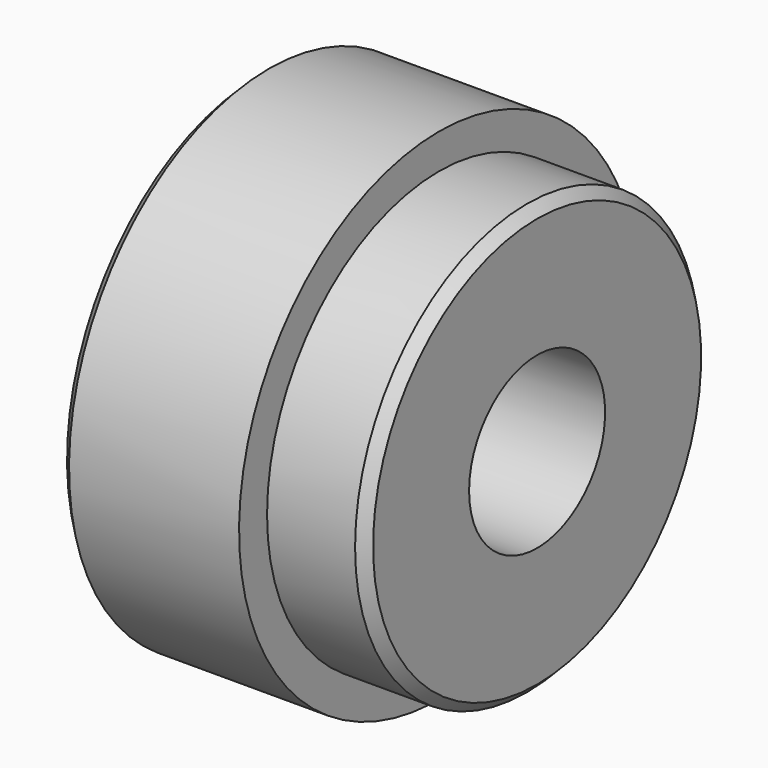
from build123d import *

# Parameters (mm, degrees)
F2_R     = 4.25
F3_DEPTH = 13.9
F4_SIZE  = 0.5


with BuildPart() as f1:
    # F0 (on Front) → F1 (revolve)
    with BuildSketch(Plane.XZ):
        Polygon((0, 12.5), (0, 0), (13.9, 0), (13.9, 10.75), (9, 10.75), (9, 12.5), align=None)
    revolve(axis=Axis((6.95, 0, 0), (1, 0, 0)))

    # F2 (on face) → F3 (cut, through all)
    with BuildSketch(Plane(origin=(0, 0, 0), x_dir=(0, -1, 0), z_dir=(-1, 0, 0))):
        Circle(F2_R)
    extrude(amount=-F3_DEPTH, mode=Mode.SUBTRACT)

    # F4
    f4_edges = [f1.edges().sort_by_distance(p)[0] for p in [
        (13.9, 0, -10.75),
        (0, 0, -12.5),
    ]]
    chamfer(f4_edges, length=F4_SIZE)


solid = f1.part
